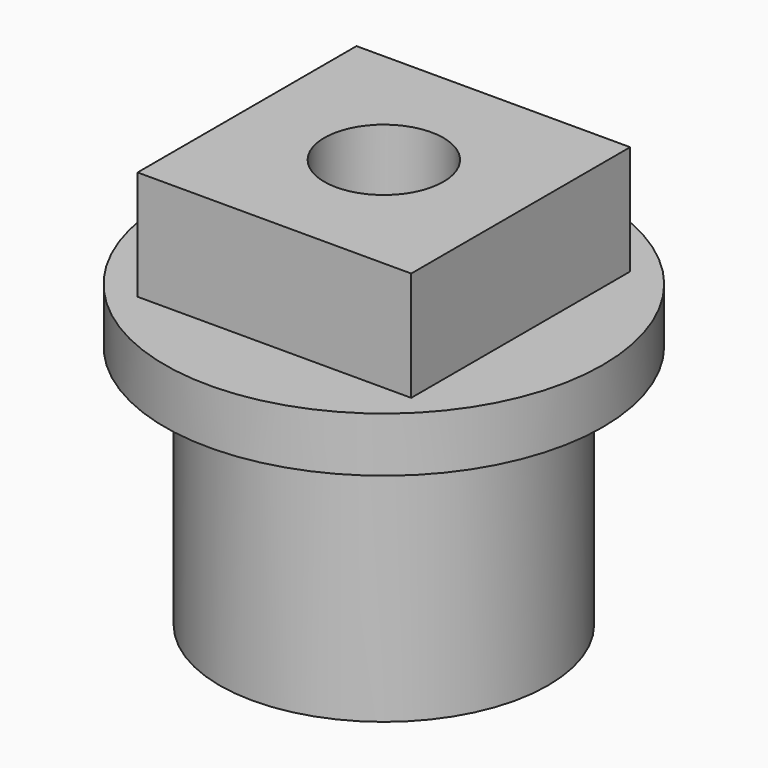
from build123d import *

# Parameters (mm, degrees)
F0_R     = 4.7625
F0_R_2   = 1.7272
F1_DEPTH = 7.112
F2_R     = 6.35
F2_R_2   = 1.7272
F3_DEPTH = 1.5875
F4_W     = 7.9375
F4_H     = 7.9375
F4_R     = 1.7272
F5_DEPTH = 3.175


with BuildPart() as f1:
    # F0 (on Top) → F1 (new body)
    with BuildSketch(Plane.XY):
        Circle(F0_R)
        Circle(F0_R_2, mode=Mode.SUBTRACT)
    extrude(amount=F1_DEPTH)

    # F2 (on face) → F3 (join)
    with BuildSketch(Plane.XY.offset(7.112)):
        Circle(F2_R)
        Circle(F2_R_2, mode=Mode.SUBTRACT)
    extrude(amount=F3_DEPTH)

    # F4 (on face) → F5 (join)
    with BuildSketch(Plane.XY.offset(8.6995)):
        Rectangle(F4_W, F4_H)
        Circle(F4_R, mode=Mode.SUBTRACT)
    extrude(amount=F5_DEPTH)


solid = f1.part
